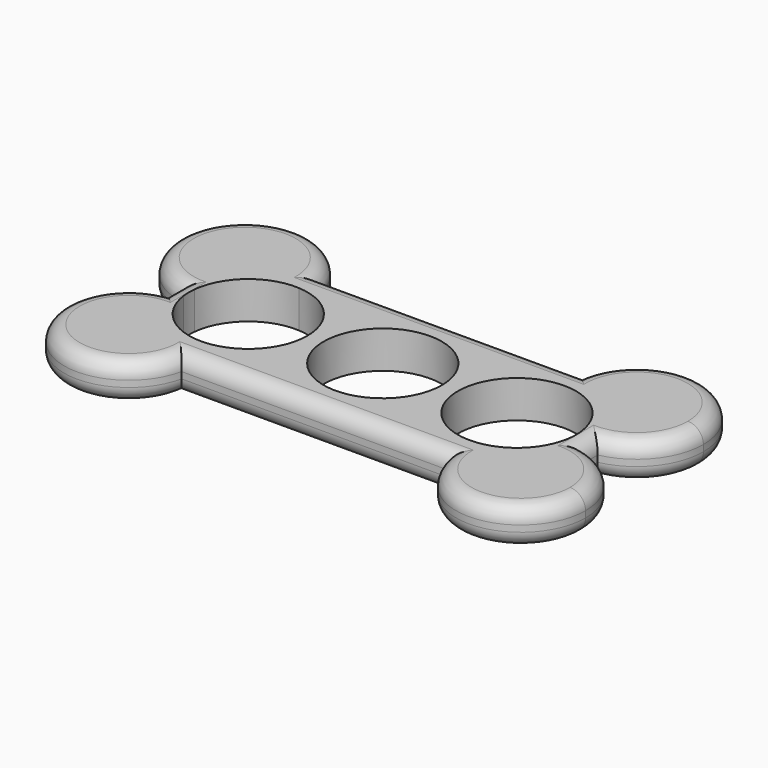
from build123d import *

# Parameters (mm, degrees)
F0_R     = 11.075
F1_DEPTH = 7
F2_R     = 2.9


with BuildPart() as f1:
    # F0 (on Top) → F1 (new body)
    with BuildSketch(Plane.XY):
        with BuildLine():
            Line((-37.2405508759, 16.0354509738), (-22.493102162, 16.0354509738))
            ThreePointArc((-22.493102162, 16.0354509738), (-43.5793856408, 22.3742857386), (-37.2405508759, 1.2880022599))
            Line((-37.2405508759, 1.2880022599), (-37.2405508759, 16.0354509738))
        make_face()
        with BuildLine():
            ThreePointArc((-22.2405508759, 13.5354509738), (-22.3038489634, 14.7918129989), (-22.493102162, 16.0354509738))
            Line((-22.493102162, 16.0354509738), (-37.2405508759, 16.0354509738))
            Line((-37.2405508759, 16.0354509738), (-37.2405508759, 1.2880022599))
            ThreePointArc((-37.2405508759, 1.2880022599), (-35.7176110792, 1.0736953447), (-34.1798807916, 1.0480313422))
            ThreePointArc((-34.1798807916, 1.0480313422), (-30.3298768194, 8.3359719383), (-22.5116895017, 10.9460592517))
            ThreePointArc((-22.5116895017, 10.9460592517), (-22.3085203262, 12.2336766419), (-22.2405508759, 13.5354509738))
        make_face()
        with BuildLine():
            ThreePointArc((26.8405941114, -11.1106524759), (16.0609380304, -0.2270030832), (26.4660399044, 11.0152682317))
            ThreePointArc((26.4660399044, 11.0152682317), (26.2093557494, 13.525149775), (26.4619027909, 16.0354509738))
            Line((26.4619027909, 16.0354509738), (-22.493102162, 16.0354509738))
            ThreePointArc((-22.493102162, 16.0354509738), (-22.3038489634, 14.7918129989), (-22.2405508759, 13.5354509738))
            ThreePointArc((-22.2405508759, 13.5354509738), (-22.3085203262, 12.2336766419), (-22.5116895017, 10.9460592517))
            ThreePointArc((-22.5116895017, 10.9460592517), (-15.1064833207, 7.4868938801), (-12.0905508759, -0.1096221069))
            ThreePointArc((-12.0905508759, -0.1096221069), (-15.2261105188, -7.8310799884), (-22.8573069601, -11.1803316907))
            ThreePointArc((-22.8573069601, -11.1803316907), (-22.6723975644, -12.3912029384), (-22.6105508759, -13.6145490262))
            ThreePointArc((-22.6105508759, -13.6145490262), (-22.6758318492, -14.8713126496), (-22.8709721134, -16.1145490262))
            Line((-22.8709721134, -16.1145490262), (26.8397727423, -16.1145490262))
            ThreePointArc((26.8397727423, -16.1145490262), (26.5793516683, -13.6125579366), (26.8405941114, -11.1106524759))
        make_face()
        with Locations((1.9843515049, -0.0395490262)):
            Circle(F0_R, mode=Mode.SUBTRACT)
        with BuildLine():
            Line((41.2093515049, 16.0354509738), (41.2093515049, 1.2880022599))
            ThreePointArc((41.2093515049, 1.2880022599), (48.3918098704, 5.6297568234), (51.2093515049, 13.5354509738))
            ThreePointArc((51.2093515049, 13.5354509738), (39.9657135299, 25.9721528864), (26.4619027909, 16.0354509738))
            Line((26.4619027909, 16.0354509738), (41.2093515049, 16.0354509738))
        make_face()
        with BuildLine():
            ThreePointArc((38.155852751, 1.0477114214), (38.1959687307, 0.5047389026), (38.2093515049, -0.0395490262))
            ThreePointArc((38.2093515049, -0.0395490262), (38.1851715732, -0.770986526), (38.112737362, -1.4992301462))
            ThreePointArc((38.112737362, -1.4992301462), (39.6689433356, -1.522564759), (41.2093515049, -1.7449702637))
            Line((41.2093515049, -1.7449702637), (41.2093515049, 1.2880022599))
            ThreePointArc((41.2093515049, 1.2880022599), (39.6899899179, 1.0739764101), (38.155852751, 1.0477114214))
        make_face()
        with BuildLine():
            ThreePointArc((41.2093515049, -1.7449702637), (39.6689433356, -1.522564759), (38.112737362, -1.4992301462))
            ThreePointArc((38.112737362, -1.4992301462), (34.3201138967, -8.4669118313), (26.8405941114, -11.1106524759))
            ThreePointArc((26.8405941114, -11.1106524759), (26.5793516683, -13.6125579366), (26.8397727423, -16.1145490262))
            Line((26.8397727423, -16.1145490262), (41.2093515049, -16.1145490262))
            Line((41.2093515049, -16.1145490262), (41.2093515049, -1.7449702637))
        make_face()
        with BuildLine():
            ThreePointArc((50.8393515049, -13.6145490262), (48.1290622223, -5.9721704697), (41.2093515049, -1.7449702637))
            Line((41.2093515049, -1.7449702637), (41.2093515049, -16.1145490262))
            Line((41.2093515049, -16.1145490262), (26.8397727423, -16.1145490262))
            ThreePointArc((26.8397727423, -16.1145490262), (39.9661151283, -25.6792680529), (50.8393515049, -13.6145490262))
        make_face()
        with BuildLine():
            ThreePointArc((-37.2405508759, -1.7449702637), (-43.3177561317, -22.191754282), (-22.8709721134, -16.1145490262))
            Line((-22.8709721134, -16.1145490262), (-37.2405508759, -16.1145490262))
            Line((-37.2405508759, -16.1145490262), (-37.2405508759, -1.7449702637))
        make_face()
        with BuildLine():
            ThreePointArc((-34.1798807916, 1.0480313422), (-35.7176110792, 1.0736953447), (-37.2405508759, 1.2880022599))
            Line((-37.2405508759, 1.2880022599), (-37.2405508759, -1.7449702637))
            ThreePointArc((-37.2405508759, -1.7449702637), (-35.7047067484, -1.5229278175), (-34.1530827378, -1.4987832152))
            ThreePointArc((-34.1530827378, -1.4987832152), (-34.2399378349, -0.2261488549), (-34.1798807916, 1.0480313422))
        make_face()
        with BuildLine():
            Line((-37.2405508759, -16.1145490262), (-22.8709721134, -16.1145490262))
            ThreePointArc((-22.8709721134, -16.1145490262), (-22.6758318492, -14.8713126496), (-22.6105508759, -13.6145490262))
            ThreePointArc((-22.6105508759, -13.6145490262), (-22.6723975644, -12.3912029384), (-22.8573069601, -11.1803316907))
            ThreePointArc((-22.8573069601, -11.1803316907), (-30.3728314296, -8.5185894645), (-34.1530827378, -1.4987832152))
            ThreePointArc((-34.1530827378, -1.4987832152), (-35.7047067484, -1.5229278175), (-37.2405508759, -1.7449702637))
            Line((-37.2405508759, -1.7449702637), (-37.2405508759, -16.1145490262))
        make_face()
        with BuildLine():
            ThreePointArc((26.4660399044, 11.0152682317), (34.3201138967, 8.3878137789), (38.155852751, 1.0477114214))
            ThreePointArc((38.155852751, 1.0477114214), (39.6899899179, 1.0739764101), (41.2093515049, 1.2880022599))
            Line((41.2093515049, 1.2880022599), (41.2093515049, 16.0354509738))
            Line((41.2093515049, 16.0354509738), (26.4619027909, 16.0354509738))
            ThreePointArc((26.4619027909, 16.0354509738), (26.2093557494, 13.525149775), (26.4660399044, 11.0152682317))
        make_face()
    extrude(amount=F1_DEPTH)

    # F2
    f2_edges = [f1.edges().sort_by_distance(p)[0] for p in [
        (-43.317756, -22.191754, 7),
        (1.9844, -16.114549, 7),
        (47.286557, -22.191754, 7),
        (41.209352, -0.228484, 7),
        (47.548186, 22.374286, 7),
        (1.9844, 16.035451, 7),
        (-43.579386, 22.374286, 0),
        (-43.579386, 22.374286, 7),
        (-37.240551, -0.228484, 7),
        (-43.317756, -22.191754, 0),
        (-37.240551, -0.228484, 0),
        (1.9844, -16.114549, 0),
        (1.9844, 16.035451, 0),
        (47.286557, -22.191754, 0),
        (47.548186, 22.374286, 0),
        (41.209352, -0.228484, 0),
    ]]
    fillet(f2_edges, radius=F2_R)


solid = f1.part
